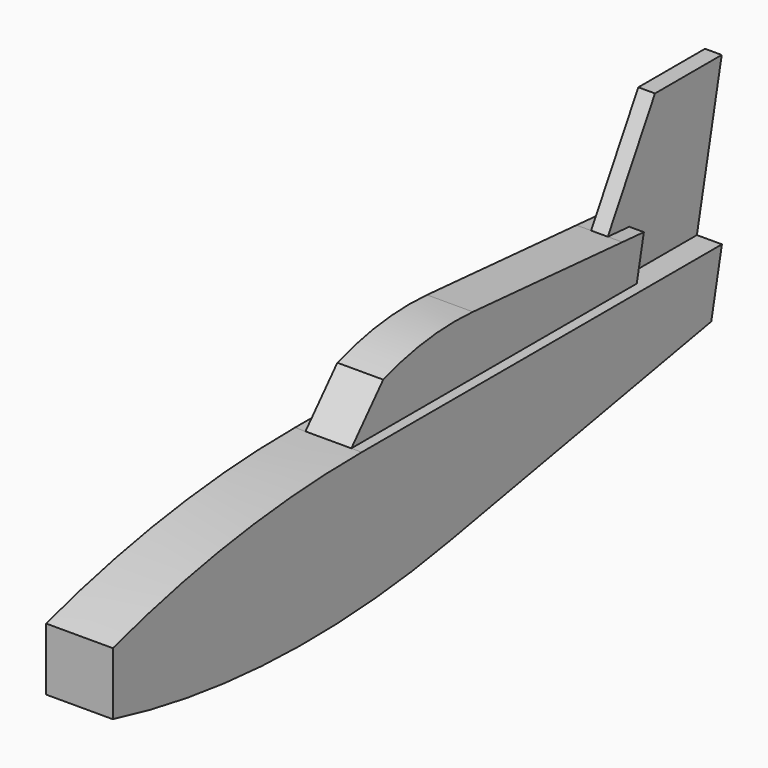
from build123d import *

# Parameters (mm, degrees)
F2_DEPTH = 16
F3_DEPTH = 4
F4_DEPTH = 11


with BuildPart() as f2:
    # F1 (on Right) → F2 (new body, symmetric)
    with BuildSketch(Plane.YZ):
        with BuildLine():
            Line((150.3560738462, 25), (0, 25))
            ThreePointArc((0, 25), (-75.426387367, 19.4523172703), (-149.2294073105, 2.9286693037))
            Line((-149.2294073105, 2.9286693037), (-149.2294073105, 0))
            Line((-149.2294073105, 0), (-149.2294073105, -27.0713306963))
            ThreePointArc((-149.2294073105, -27.0713306963), (-48.6487574396, -41.4344679398), (52.6726568851, -33.9020155382))
            Line((52.6726568851, -33.9020155382), (209.5149365225, -5))
            Line((209.5149365225, -5), (215.8916333726, 25))
            Line((215.8916333726, 25), (171.0938662291, 25))
            Line((171.0938662291, 25), (150.3560738462, 25))
        make_face()
    extrude(amount=F2_DEPTH, both=True)

    # F1 (on Right) → F3 (join, symmetric)
    with BuildSketch(Plane.YZ):
        Polygon((175.3449974625, 45), (171.0938662291, 25), (215.8916333726, 25), (230.7705926895, 95), (190.7705926895, 95), (162.4827761164, 46.0040644602), align=None)
    extrude(amount=F3_DEPTH, both=True)

    # F1 (on Right) → F4 (join, symmetric)
    with BuildSketch(Plane.YZ):
        Polygon((162.4827761164, 46.0040644602), (150.3560738462, 25), (171.0938662291, 25), (175.3449974625, 45), align=None)
        with BuildLine():
            Line((19.114555791, 46.2288648769), (0, 25))
            Line((0, 25), (150.3560738462, 25))
            Line((150.3560738462, 25), (162.4827761164, 46.0040644602))
            Line((162.4827761164, 46.0040644602), (72.8637576103, 53))
            ThreePointArc((72.8637576103, 53), (45.6439579452, 52.3546166529), (19.114555791, 46.2288648769))
        make_face()
    extrude(amount=F4_DEPTH, both=True)


solid = f2.part
